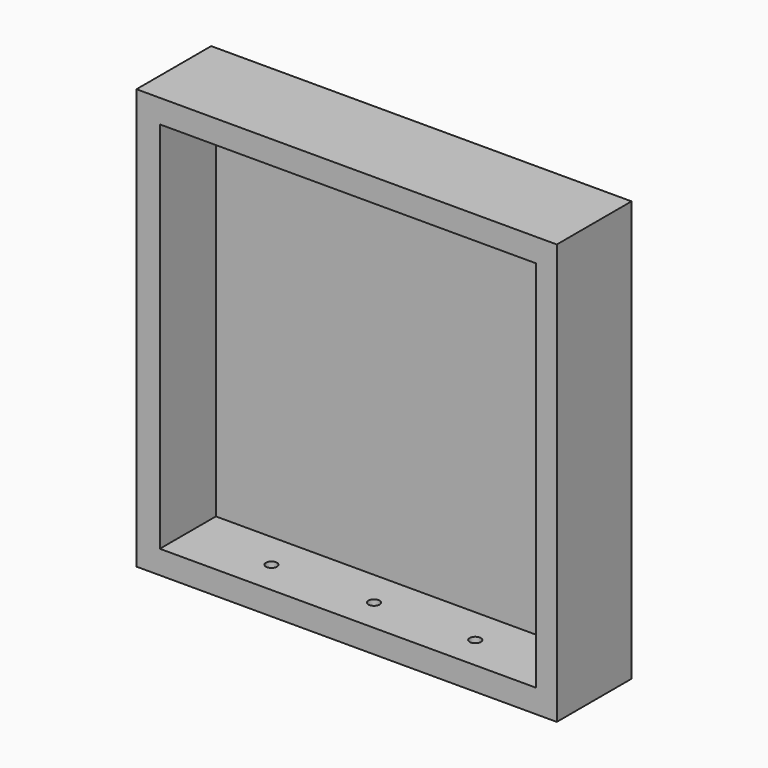
from build123d import *

# Parameters (mm, degrees)
F0_W     = 114.3
F0_H     = 114.3
F2_DEPTH = 25.4
F3_W     = 102.25038
F3_H     = 101.6
F4_DEPTH = 19.05
F5_R     = 1.5
F6_DEPTH = 110.49


with BuildPart() as f2:
    # F0 (on Front) → F2 (new body)
    with BuildSketch(Plane.XZ):
        Rectangle(F0_W, F0_H)
    extrude(amount=F2_DEPTH)

    # F3 (on face) → F4 (cut)
    with BuildSketch(Plane.XZ.offset(25.4)):
        with Locations((0.32519, 0)):
            Rectangle(F3_W, F3_H)
    extrude(amount=-F4_DEPTH, mode=Mode.SUBTRACT)

    # F5 (on face) → F6 (cut)
    with BuildSketch(Plane(origin=(0, 0, -57.15), x_dir=(1, 0, 0), z_dir=(0, 0, -1))):
        with Locations((0.175, 16.318)):
            Circle(F5_R)
        with Locations((27.71, 16.318)):
            Circle(F5_R)
        with Locations((-27.71, 16.318)):
            Circle(F5_R)
    extrude(amount=-F6_DEPTH, mode=Mode.SUBTRACT)


solid = f2.part
